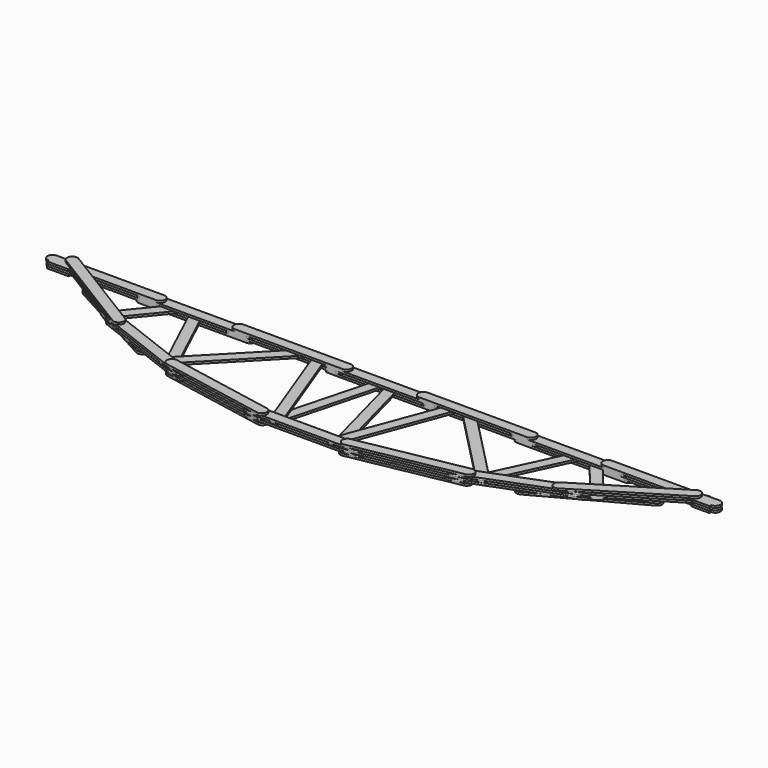
from build123d import *

# Parameters (mm, degrees)
F2_DEPTH  = 2
F4_DEPTH  = 2
F6_DEPTH  = 2
F8_DEPTH  = 2
F10_DEPTH = 2
F12_DEPTH = 2
F14_DEPTH = 2
F16_DEPTH = 2
F17_W     = 21.1193918561
F17_H     = 2
F17_W_2   = 20.813558278
F17_W_3   = 17.5295233105
F17_W_4   = 17.6549075965
F18_DEPTH = 2


with BuildPart() as f2:
    # F1 (on Top) → F2 (new body)
    with BuildSketch(Plane.XY):
        with BuildLine():
            Line((-309.53685846, 0), (-220.9761874812, -54.5252928079))
            ThreePointArc((-220.9761874812, -54.5252928079), (-214.0970546069, -52.8889765496), (-215.7333708651, -46.0098436753))
            Line((-215.7333708651, -46.0098436753), (-304.2940418439, 8.5154491326))
            ThreePointArc((-304.2940418439, 8.5154491326), (-311.1731747182, 6.8791328744), (-309.53685846, 0))
        make_face()
    extrude(amount=F2_DEPTH)



with BuildPart() as f2b:
    # F1 (on Top) → F2, piece 2 (new body)
    with BuildSketch(Plane.XY):
        with BuildLine():
            Line((-144.3964950624, -84.5916173001), (-42.1778686972, -103.7580573455))
            ThreePointArc((-42.1778686972, -103.7580573455), (-36.3420481967, -99.7651637725), (-40.3349417698, -93.9293432719))
            Line((-40.3349417698, -93.9293432719), (-142.553568135, -74.7629032265))
            ThreePointArc((-142.553568135, -74.7629032265), (-148.3893886355, -78.7557967996), (-144.3964950624, -84.5916173001))
        make_face()
    extrude(amount=F2_DEPTH)


with BuildPart() as f2c:
    # F1 (on Top) → F2, piece 3 (new body)
    with BuildSketch(Plane.XY):
        with BuildLine():
            Line((41.0593349463, -103.9677873217), (143.2779613115, -84.8013472763))
            ThreePointArc((143.2779613115, -84.8013472763), (147.2708548846, -78.9655267758), (141.4350343841, -74.9726332027))
            Line((141.4350343841, -74.9726332027), (39.2164080189, -94.1390732482))
            ThreePointArc((39.2164080189, -94.1390732482), (35.2235144458, -99.9748937487), (41.0593349463, -103.9677873217))
        make_face()
    extrude(amount=F2_DEPTH)


with BuildPart() as f2d:
    # F1 (on Top) → F2, piece 4 (new body)
    with BuildSketch(Plane.XY):
        with BuildLine():
            Line((219.9613066964, -55.1501375764), (308.5219776752, -0.6248447685))
            ThreePointArc((308.5219776752, -0.6248447685), (310.1582939334, 6.2542881058), (303.279161059, 7.8906043641))
            Line((303.279161059, 7.8906043641), (214.7184900802, -46.6346884438))
            ThreePointArc((214.7184900802, -46.6346884438), (213.082173822, -53.5138213182), (219.9613066964, -55.1501375764))
        make_face()
    extrude(amount=F2_DEPTH)


with BuildPart() as f4:
    # F3 (on Top) → F4 (new body)
    with BuildSketch(Plane.XY):
        with BuildLine():
            Line((-148.4644711018, -5), (-44.4644711018, -5))
            ThreePointArc((-44.4644711018, -5), (-39.4644711018, 0), (-44.4644711018, 5))
            Line((-44.4644711018, 5), (-148.4644711018, 5))
            ThreePointArc((-148.4644711018, 5), (-153.4644711018, 0), (-148.4644711018, -5))
        make_face()
    extrude(amount=-F4_DEPTH)


with BuildPart() as f4b:
    # F3 (on Top) → F4, piece 2 (new body)
    with BuildSketch(Plane.XY):
        with BuildLine():
            Line((42.0889577866, -5), (146.0889577866, -5))
            ThreePointArc((146.0889577866, -5), (151.0889577866, 0), (146.0889577866, 5))
            Line((146.0889577866, 5), (42.0889577866, 5))
            ThreePointArc((42.0889577866, 5), (37.0889577866, 0), (42.0889577866, -5))
        make_face()
    extrude(amount=-F4_DEPTH)


with BuildPart() as f2_1:
    add(f2.part)

    add(f2b.part)  # F4#3 merges F2b

    add(f2c.part)  # F4#3 merges F2c

    add(f2d.part)  # F4#3 merges F2d
    # F3 (on Top) → F4, piece 3 (join)
    with BuildSketch(Plane.XY):
        with BuildLine():
            Line((-229.6642340502, -50.4039979601), (-132.6500743057, -87.877359286))
            ThreePointArc((-132.6500743057, -87.877359286), (-126.1843281004, -85.0148209005), (-129.0468664859, -78.5490746952))
            Line((-129.0468664859, -78.5490746952), (-226.0610262304, -41.0757133693))
            ThreePointArc((-226.0610262304, -41.0757133693), (-232.5267724357, -43.9382517548), (-229.6642340502, -50.4039979601))
        make_face()
        with BuildLine():
            Line((-51.9323625565, -102.8056351564), (52.0676374435, -102.8056351564))
            ThreePointArc((52.0676374435, -102.8056351564), (57.0676374435, -97.8056351564), (52.0676374435, -92.8056351564))
            Line((52.0676374435, -92.8056351564), (-51.9323625565, -92.8056351564))
            ThreePointArc((-51.9323625565, -92.8056351564), (-56.9323625565, -97.8056351564), (-51.9323625565, -102.8056351564))
        make_face()
        with BuildLine():
            Line((132.4176832349, -87.9671242707), (229.4318429794, -50.4937629448))
            ThreePointArc((229.4318429794, -50.4937629448), (232.294381365, -44.0280167395), (225.8286351596, -41.165478354))
            Line((225.8286351596, -41.165478354), (128.8144754151, -78.6388396799))
            ThreePointArc((128.8144754151, -78.6388396799), (125.9519370296, -85.1045858852), (132.4176832349, -87.9671242707))
        make_face()
        with BuildLine():
            Line((-322.2293534279, -5), (-218.2293534279, -5))
            ThreePointArc((-218.2293534279, -5), (-213.2293534279, 0), (-218.2293534279, 5))
            Line((-218.2293534279, 5), (-322.2293534279, 5))
            ThreePointArc((-322.2293534279, 5), (-327.2293534279, 0), (-322.2293534279, -5))
        make_face()
        with BuildLine():
            Line((214.9453184605, -5), (318.9453184605, -5))
            ThreePointArc((318.9453184605, -5), (323.9453184605, 0), (318.9453184605, 5))
            Line((318.9453184605, 5), (214.9453184605, 5))
            ThreePointArc((214.9453184605, 5), (209.9453184605, 0), (214.9453184605, -5))
        make_face()
    extrude(amount=-F4_DEPTH)


    add(f4.part)  # F6 merges F4

    add(f4b.part)  # F6 merges F4b
    # F5 (on Top) → F6 (join)
    with BuildSketch(Plane.XY):
        with BuildLine():
            Line((-234.709084034, -5), (-130.709084034, -5))
            ThreePointArc((-130.709084034, -5), (-125.709084034, 0), (-130.709084034, 5))
            Line((-130.709084034, 5), (-234.709084034, 5))
            ThreePointArc((-234.709084034, 5), (-239.709084034, 0), (-234.709084034, -5))
        make_face()
        with BuildLine():
            Line((-52.7892448008, -5), (51.2107551992, -5))
            ThreePointArc((51.2107551992, -5), (56.2107551992, 0), (51.2107551992, 5))
            Line((51.2107551992, 5), (-52.7892448008, 5))
            ThreePointArc((-52.7892448008, 5), (-57.7892448008, 0), (-52.7892448008, -5))
        make_face()
        with BuildLine():
            Line((127.2458732128, -5), (231.2458732128, -5))
            ThreePointArc((231.2458732128, -5), (236.2458732128, 0), (231.2458732128, 5))
            Line((231.2458732128, 5), (127.2458732128, 5))
            ThreePointArc((127.2458732128, 5), (122.2458732128, 0), (127.2458732128, -5))
        make_face()
    extrude(amount=F6_DEPTH)

    # F7 (on face) → F8 (join)
    with BuildSketch(Plane.XY):
        with BuildLine():
            Line((-69.2815651865, -1.7537872767), (-32.8027898302, -99.1462867236))
            ThreePointArc((-32.8027898302, -99.1462867236), (-26.3666708493, -102.074831151), (-23.4381264219, -95.6387121701))
            Line((-23.4381264219, -95.6387121701), (-59.9169017781, 1.7537872767))
            ThreePointArc((-59.9169017781, 1.7537872767), (-66.3530207591, 4.6823317042), (-69.2815651865, -1.7537872767))
        make_face()
        with BuildLine():
            Line((-84.4287229294, 3.4889374767), (-156.9986224439, -71.0067649796))
            ThreePointArc((-156.9986224439, -71.0067649796), (-156.906035764, -78.0772266129), (-149.8355741307, -77.984639933))
            Line((-149.8355741307, -77.984639933), (-77.2656746163, -3.4889374767))
            ThreePointArc((-77.2656746163, -3.4889374767), (-77.3582612962, 3.5815241566), (-84.4287229294, 3.4889374767))
        make_face()
        with BuildLine():
            ThreePointArc((69.2815651865, -1.7537872767), (66.3530207591, 4.6823317042), (59.9169017781, 1.7537872767))
            Line((59.9169017781, 1.7537872767), (23.4381264219, -95.6387121701))
            ThreePointArc((23.4381264219, -95.6387121701), (26.3666708493, -102.074831151), (32.8027898302, -99.1462867236))
            Line((32.8027898302, -99.1462867236), (69.2815651865, -1.7537872767))
        make_face()
        with BuildLine():
            Line((77.2656746163, -3.4889374767), (149.8355741307, -77.984639933))
            ThreePointArc((149.8355741307, -77.984639933), (156.906035764, -78.0772266129), (156.9986224439, -71.0067649796))
            Line((156.9986224439, -71.0067649796), (84.4287229294, 3.4889374767))
            ThreePointArc((84.4287229294, 3.4889374767), (77.3582612962, 3.5815241566), (77.2656746163, -3.4889374767))
        make_face()
    extrude(amount=F8_DEPTH)

    # F9 (on face) → F10 (join)
    with BuildSketch(Plane(origin=(0, 0, 0), x_dir=(1, 0, 0), z_dir=(0, 0, -1))):
        with BuildLine():
            Line((-157.9856994293, 67.3709606334), (-188.556201037, 2.1213002484))
            ThreePointArc((-188.556201037, 2.1213002484), (-186.1497993013, -4.527701984), (-179.5007970689, -2.1213002484))
            Line((-179.5007970689, -2.1213002484), (-144.502482546, 72.5790813802))
            Line((-144.502482546, 72.5790813802), (-157.9856994293, 67.3709606334))
        make_face()
        with BuildLine():
            Line((-243.4935526077, 40.6617356192), (-207.4890265294, -3.1735381573))
            ThreePointArc((-207.4890265294, -3.1735381573), (-200.4517265311, -3.863761841), (-199.7615028474, 3.1735381573))
            Line((-199.7615028474, 3.1735381573), (-234.8990245348, 45.9532397885))
            Line((-234.8990245348, 45.9532397885), (-243.4935526077, 40.6617356192))
        make_face()
        with BuildLine():
            Line((144.502482546, 72.5790813802), (179.5007970689, -2.1213002484))
            ThreePointArc((179.5007970689, -2.1213002484), (186.1497993013, -4.527701984), (188.556201037, 2.1213002484))
            Line((188.556201037, 2.1213002484), (157.9856994293, 67.3709606334))
            Line((157.9856994293, 67.3709606334), (144.502482546, 72.5790813802))
        make_face()
        with BuildLine():
            Line((234.8990245348, 45.9532397885), (199.7615028474, 3.1735381573))
            ThreePointArc((199.7615028474, 3.1735381573), (200.4517265311, -3.863761841), (207.4890265294, -3.1735381573))
            Line((207.4890265294, -3.1735381573), (243.4935526077, 40.6617356192))
            Line((243.4935526077, 40.6617356192), (234.8990245348, 45.9532397885))
        make_face()
        with BuildLine():
            Line((-35.7969591013, 92.8056351564), (-10.8327813121, -1.2822732898))
            ThreePointArc((-10.8327813121, -1.2822732898), (-4.7177267102, -4.8327813121), (-1.1672186879, 1.2822732898))
            Line((-1.1672186879, 1.2822732898), (-25.450949884, 92.8056351564))
            Line((-25.450949884, 92.8056351564), (-35.7969591013, 92.8056351564))
        make_face()
        with BuildLine():
            Line((35.7969591013, 92.8056351564), (25.450949884, 92.8056351564))
            Line((25.450949884, 92.8056351564), (1.1672186879, 1.2822732898))
            ThreePointArc((1.1672186879, 1.2822732898), (4.7177267102, -4.8327813121), (10.8327813121, -1.2822732898))
            Line((10.8327813121, -1.2822732898), (35.7969591013, 92.8056351564))
        make_face()
    extrude(amount=F10_DEPTH)

    # F11 (on face) → F12 (join)
    with BuildSketch(Plane(origin=(0, 0, -2), x_dir=(1, 0, 0), z_dir=(0, 0, -1))):
        with BuildLine():
            Line((-51.7905801535, -5), (52.2094198465, -5))
            ThreePointArc((52.2094198465, -5), (57.2094198465, 0), (52.2094198465, 5))
            Line((52.2094198465, 5), (-51.7905801535, 5))
            ThreePointArc((-51.7905801535, 5), (-56.7905801535, 0), (-51.7905801535, -5))
        make_face()
        with BuildLine():
            Line((-235.0307703018, -5), (-131.0307703018, -5))
            ThreePointArc((-131.0307703018, -5), (-126.0307703018, 0), (-131.0307703018, 5))
            Line((-131.0307703018, 5), (-235.0307703018, 5))
            ThreePointArc((-235.0307703018, 5), (-240.0307703018, 0), (-235.0307703018, -5))
        make_face()
        with BuildLine():
            Line((-141.476314408, 74.9648930175), (-39.2576880428, 94.1313330629))
            ThreePointArc((-39.2576880428, 94.1313330629), (-35.2647944698, 99.9671535634), (-41.1006149703, 103.9600471365))
            Line((-41.1006149703, 103.9600471365), (-143.3192413355, 84.7936070911))
            ThreePointArc((-143.3192413355, 84.7936070911), (-147.3121349085, 78.9577865905), (-141.476314408, 74.9648930175))
        make_face()
        with BuildLine():
            Line((-272.5890957329, 11.0219240696), (-181.2097551559, 60.6789086308))
            ThreePointArc((-181.2097551559, 60.6789086308), (-179.2038726551, 67.4595011855), (-185.9844652098, 69.4653836863))
            Line((-185.9844652098, 69.4653836863), (-277.3638057868, 19.808399125))
            ThreePointArc((-277.3638057868, 19.808399125), (-279.3696882876, 13.0278065703), (-272.5890957329, 11.0219240696))
        make_face()
        with BuildLine():
            Line((143.3192413355, 84.7936070911), (41.1006149703, 103.9600471365))
            ThreePointArc((41.1006149703, 103.9600471365), (35.2647944698, 99.9671535634), (39.2576880428, 94.1313330629))
            Line((39.2576880428, 94.1313330629), (141.476314408, 74.9648930175))
            ThreePointArc((141.476314408, 74.9648930175), (147.3121349085, 78.9577865905), (143.3192413355, 84.7936070911))
        make_face()
        with BuildLine():
            Line((235.0307703018, 5), (131.0307703018, 5))
            ThreePointArc((131.0307703018, 5), (126.0307703018, 0), (131.0307703018, -5))
            Line((131.0307703018, -5), (235.0307703018, -5))
            ThreePointArc((235.0307703018, -5), (240.0307703018, 0), (235.0307703018, 5))
        make_face()
        with BuildLine():
            Line((277.3638057868, 19.808399125), (185.9844652098, 69.4653836863))
            ThreePointArc((185.9844652098, 69.4653836863), (179.2038726551, 67.4595011855), (181.2097551559, 60.6789086308))
            Line((181.2097551559, 60.6789086308), (272.5890957329, 11.0219240696))
            ThreePointArc((272.5890957329, 11.0219240696), (279.3696882876, 13.0278065703), (277.3638057868, 19.808399125))
        make_face()
    extrude(amount=F12_DEPTH)

    # F13 (on face) → F14 (join)
    with BuildSketch(Plane.XY.offset(2)):
        with BuildLine():
            Line((-230.4134379929, -50.1146052557), (-133.3992782484, -87.5879665817))
            ThreePointArc((-133.3992782484, -87.5879665817), (-126.9335320431, -84.7254281962), (-129.7960704286, -78.2596819908))
            Line((-129.7960704286, -78.2596819908), (-226.8102301731, -40.7863206649))
            ThreePointArc((-226.8102301731, -40.7863206649), (-233.2759763784, -43.6488590504), (-230.4134379929, -50.1146052557))
        make_face()
        with BuildLine():
            Line((134.4341503841, -87.1882297023), (231.4483101286, -49.7148683764))
            ThreePointArc((231.4483101286, -49.7148683764), (234.3108485141, -43.2491221711), (227.8451023088, -40.3865837856))
            Line((227.8451023088, -40.3865837856), (130.8309425643, -77.8599451115))
            ThreePointArc((130.8309425643, -77.8599451115), (127.9684041788, -84.3256913168), (134.4341503841, -87.1882297023))
        make_face()
        with BuildLine():
            Line((-52.6587218046, -102.8056351564), (51.3412781954, -102.8056351564))
            ThreePointArc((51.3412781954, -102.8056351564), (56.3412781954, -97.8056351564), (51.3412781954, -92.8056351564))
            Line((51.3412781954, -92.8056351564), (-52.6587218046, -92.8056351564))
            ThreePointArc((-52.6587218046, -92.8056351564), (-57.6587218046, -97.8056351564), (-52.6587218046, -102.8056351564))
        make_face()
        with BuildLine():
            Line((215.0707027464, -5), (319.0707027464, -5))
            ThreePointArc((319.0707027464, -5), (324.0707027464, 0), (319.0707027464, 5))
            Line((319.0707027464, 5), (215.0707027464, 5))
            ThreePointArc((215.0707027464, 5), (210.0707027464, 0), (215.0707027464, -5))
        make_face()
        with BuildLine():
            Line((36.5582129955, -5), (140.5582129955, -5))
            ThreePointArc((140.5582129955, -5), (145.5582129955, 0), (140.5582129955, 5))
            Line((140.5582129955, 5), (36.5582129955, 5))
            ThreePointArc((36.5582129955, 5), (31.5582129955, 0), (36.5582129955, -5))
        make_face()
        with BuildLine():
            Line((-142.0449034274, -5), (-38.0449034274, -5))
            ThreePointArc((-38.0449034274, -5), (-33.0449034274, 0), (-38.0449034274, 5))
            Line((-38.0449034274, 5), (-142.0449034274, 5))
            ThreePointArc((-142.0449034274, 5), (-147.0449034274, 0), (-142.0449034274, -5))
        make_face()
        with BuildLine():
            Line((-322.535187006, -5), (-218.535187006, -5))
            ThreePointArc((-218.535187006, -5), (-213.535187006, 0), (-218.535187006, 5))
            Line((-218.535187006, 5), (-322.535187006, 5))
            ThreePointArc((-322.535187006, 5), (-327.535187006, 0), (-322.535187006, -5))
        make_face()
    extrude(amount=F14_DEPTH)

    # F15 (on face) → F16 (join)
    with BuildSketch(Plane.XY.offset(4)):
        with BuildLine():
            Line((214.0607373293, -58.7830173742), (302.6214083081, -4.2577245663))
            ThreePointArc((302.6214083081, -4.2577245663), (304.2577245663, 2.6214083081), (297.3785916919, 4.2577245663))
            Line((297.3785916919, 4.2577245663), (208.8179207131, -50.2675682416))
            ThreePointArc((208.8179207131, -50.2675682416), (207.1816044549, -57.1467011159), (214.0607373293, -58.7830173742))
        make_face()
        with BuildLine():
            Line((-309.5695739145, 0.0201423467), (-221.0089029357, -54.5051504612))
            ThreePointArc((-221.0089029357, -54.5051504612), (-214.1297700614, -52.868834203), (-215.7660863196, -45.9897013286))
            Line((-215.7660863196, -45.9897013286), (-304.3267572984, 8.5355914793))
            ThreePointArc((-304.3267572984, 8.5355914793), (-311.2058901728, 6.899275221), (-309.5695739145, 0.0201423467))
        make_face()
        with BuildLine():
            Line((-144.1402538978, -84.6396636405), (-41.9216275326, -103.8061036859))
            ThreePointArc((-41.9216275326, -103.8061036859), (-36.0858070321, -99.8132101129), (-40.0787006052, -93.9773896124))
            Line((-40.0787006052, -93.9773896124), (-142.2973269704, -74.8109495669))
            ThreePointArc((-142.2973269704, -74.8109495669), (-148.1331474709, -78.80384314), (-144.1402538978, -84.6396636405))
        make_face()
        with BuildLine():
            Line((42.7637739249, -103.6481975497), (144.9824002901, -84.4817575043))
            ThreePointArc((144.9824002901, -84.4817575043), (148.9752938632, -78.6459370038), (143.1394733626, -74.6530434307))
            Line((143.1394733626, -74.6530434307), (40.9208469975, -93.8194834762))
            ThreePointArc((40.9208469975, -93.8194834762), (36.9279534244, -99.6553039767), (42.7637739249, -103.6481975497))
        make_face()
    extrude(amount=F16_DEPTH)

    # F17 (on face) → F18 (join)
    with BuildSketch(Plane.XZ.offset(5)):
        with Locations((-311.975491078, 3)):
            Rectangle(F17_W, F17_H)
        with Locations((-311.8225742889, -1)):
            Rectangle(F17_W_2, F17_H)
        with Locations((310.1805568052, -1)):
            Rectangle(F17_W_3, F17_H)
        with Locations((310.2432489482, 3)):
            Rectangle(F17_W_4, F17_H)
    extrude(amount=F18_DEPTH)


solid = f2_1.part
